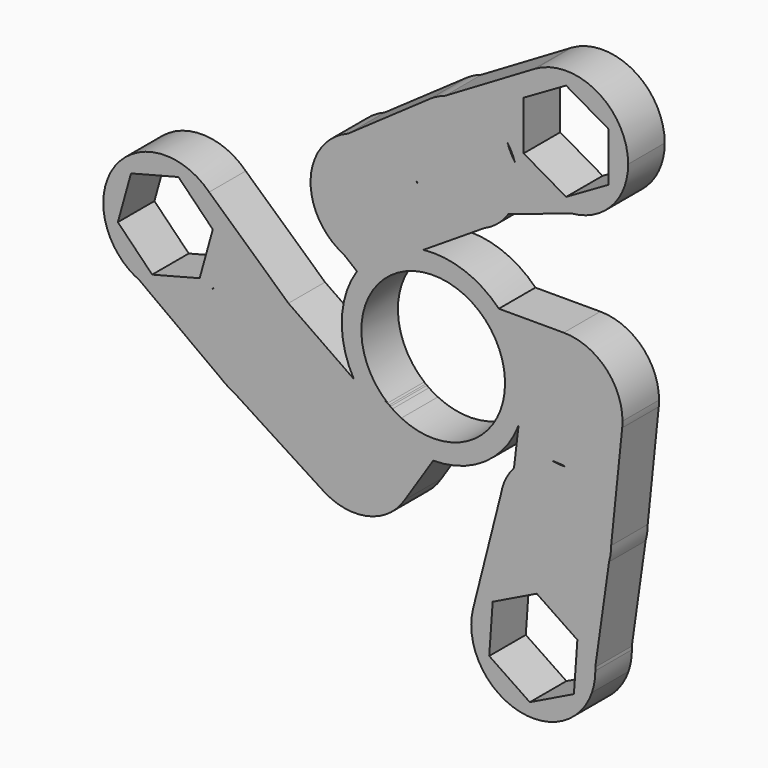
from build123d import *

# Parameters (mm, degrees)
F1_DEPTH = 7


with BuildPart() as f1:
    # F0 (on Front) → F1 (new body)
    with BuildSketch(Plane.XZ):
        with BuildLine():
            ThreePointArc((11, 0), (5.8012105465, -9.3459058521), (-4.8810829447, -9.8577395628))
            ThreePointArc((-4.8810829447, -9.8577395628), (-5.5749329735, -9.4826221237), (-6.2401185881, -9.0587482582))
            ThreePointArc((-6.2401185881, -9.0587482582), (-4.4334688175, -11.105495634), (-3.3236127951, -13.5997646299))
            ThreePointArc((-3.3236127951, -13.5997646299), (-1.6738122926, -13.8995810156), (0, -14))
            ThreePointArc((0, -14), (7.9304668623, -11.5372308352), (13.0708038317, -5.0153850494))
            ThreePointArc((13.0708038317, -5.0153850494), (11.5818296218, -2.4752215759), (10.9923725134, 0.4095687088))
            ThreePointArc((10.9923725134, 0.4095687088), (10.998092963, 0.2048198634), (11, 0))
        make_face()
        with BuildLine():
            ThreePointArc((-5.376474925, 9.5965367389), (5.3837414339, 9.5924620496), (10.9923725134, 0.4095687088))
            ThreePointArc((10.9923725134, 0.4095687088), (11.3655224252, 3.3302251077), (12.6613409157, 5.9741481582))
            ThreePointArc((12.6613409157, 5.9741481582), (11.5120561281, 7.9669670329), (10.0519351006, 9.7446703758))
            ThreePointArc((10.0519351006, 9.7446703758), (4.7602009643, 13.1658834409), (-1.4958903607, 13.9198531612))
            ThreePointArc((-1.4958903607, 13.9198531612), (-3.0777558878, 11.4364731057), (-5.376474925, 9.5965367389))
        make_face()
        with BuildLine():
            ThreePointArc((12.6613409157, 5.9741481582), (11.3655224252, 3.3302251077), (10.9923725134, 0.4095687088))
            ThreePointArc((10.9923725134, 0.4095687088), (11.5818296218, -2.4752215759), (13.0708038317, -5.0153850494))
            ThreePointArc((13.0708038317, -5.0153850494), (13.765741056, -2.5503672634), (14, 0))
            ThreePointArc((14, 0), (13.6612366355, 3.0611457969), (12.6613409157, 5.9741481582))
        make_face()
        with BuildLine():
            Line((-8.3457962775, -11.2404485895), (-6.5574113609, -8.8317810346))
            ThreePointArc((-6.5574113609, -8.8317810346), (-6.6459743499, -8.7653308517), (-6.7338640067, -8.6979926155))
            Line((-6.7338640067, -8.6979926155), (-7.9648038145, -7.9274867454))
            ThreePointArc((-7.9648038145, -7.9274867454), (-9.9953714425, -7.1966013967), (-12.1415555616, -6.9701239979))
            ThreePointArc((-12.1415555616, -6.9701239979), (-10.4638336366, -9.3009776704), (-8.3457962775, -11.2404485895))
        make_face()
        with BuildLine():
            ThreePointArc((-3.0061369382, -15.9691051511), (-3.0858589916, -14.7738472893), (-3.3236127951, -13.5997646299))
            ThreePointArc((-3.3236127951, -13.5997646299), (-5.95276155, -12.6714099424), (-8.3457962775, -11.2404485895))
            Line((-8.3457962775, -11.2404485895), (-17.2744989499, -23.2659785715))
            ThreePointArc((-17.2744989499, -23.2659785715), (-10.2503324106, -24.7961743397), (-4.3464215016, -20.6944368252))
            ThreePointArc((-4.3464215016, -20.6944368252), (-3.3476890712, -18.424971706), (-3.0061369382, -15.9691051511))
        make_face()
        with BuildLine():
            ThreePointArc((0, -14), (-1.6738122926, -13.8995810156), (-3.3236127951, -13.5997646299))
            ThreePointArc((-3.3236127951, -13.5997646299), (-3.0858589916, -14.7738472893), (-3.0061369382, -15.9691051511))
            ThreePointArc((-3.0061369382, -15.9691051511), (-3.3476890712, -18.424971706), (-4.3464215016, -20.6944368252))
            Line((-4.3464215016, -20.6944368252), (0, -14))
        make_face()
        with BuildLine():
            ThreePointArc((-6.969159713, -8.5106294065), (-10.9576931928, 0.9638256544), (-5.376474925, 9.5965367389))
            ThreePointArc((-5.376474925, 9.5965367389), (-8.1460141659, 8.5969734972), (-11.0899483994, 8.5447670828))
            ThreePointArc((-11.0899483994, 8.5447670828), (-11.3936737324, 8.1353671632), (-11.6822932995, 7.71518135))
            ThreePointArc((-11.6822932995, 7.71518135), (-13.9931587545, 0.4376163512), (-12.1415555616, -6.9701239979))
            ThreePointArc((-12.1415555616, -6.9701239979), (-9.9953714425, -7.1966013967), (-7.9648038145, -7.9274867454))
            ThreePointArc((-7.9648038145, -7.9274867454), (-7.4576269032, -8.2030858065), (-6.969159713, -8.5106294065))
        make_face()
        with BuildLine():
            ThreePointArc((-11.0899483994, 8.5447670828), (-8.1460141659, 8.5969734972), (-5.376474925, 9.5965367389))
            ThreePointArc((-5.376474925, 9.5965367389), (-3.0777558878, 11.4364731057), (-1.4958903607, 13.9198531612))
            ThreePointArc((-1.4958903607, 13.9198531612), (-6.842786122, 12.2137741132), (-11.0899483994, 8.5447670828))
        make_face()
        with BuildLine():
            ThreePointArc((19.9861318426, 9.7446703758), (15.8669875166, 8.7467107419), (12.6613409157, 5.9741481582))
            ThreePointArc((12.6613409157, 5.9741481582), (13.6612366355, 3.0611457969), (14, 0))
            ThreePointArc((14, 0), (13.765741056, -2.5503672634), (13.0708038317, -5.0153850494))
            ThreePointArc((13.0708038317, -5.0153850494), (15.4336529722, -7.0190230838), (18.3359214805, -8.1027476521))
            ThreePointArc((18.3359214805, -8.1027476521), (19.3521423539, -8.1145601259), (20.3596897588, -8.2475737537))
            ThreePointArc((20.3596897588, -8.2475737537), (26.1521628551, -5.8112476799), (28.9386250903, -0.1788363383))
            ThreePointArc((28.9386250903, -0.1788363383), (28.9742473078, 0.2823064654), (28.9861318426, 0.7446703758))
            ThreePointArc((28.9861318426, 0.7446703758), (26.3500928733, 7.1086314065), (19.9861318426, 9.7446703758))
        make_face()
        with BuildLine():
            ThreePointArc((10.0519351006, 9.7446703758), (11.5120561281, 7.9669670329), (12.6613409157, 5.9741481582))
            ThreePointArc((12.6613409157, 5.9741481582), (15.8669875166, 8.7467107419), (19.9861318426, 9.7446703758))
            Line((19.9861318426, 9.7446703758), (10.0519351006, 9.7446703758))
        make_face()
        with BuildLine():
            ThreePointArc((18.3359214805, -8.1027476521), (15.4336529722, -7.0190230838), (13.0708038317, -5.0153850494))
            Line((13.0708038317, -5.0153850494), (12.3737412803, -10.9668838503))
            ThreePointArc((12.3737412803, -10.9668838503), (15.0648066133, -8.9310805222), (18.3359214805, -8.1027476521))
        make_face()
        with BuildLine():
            Line((-17.2744989499, -23.2659785715), (-8.3457962775, -11.2404485895))
            ThreePointArc((-8.3457962775, -11.2404485895), (-10.4638336366, -9.3009776704), (-12.1415555616, -6.9701239979))
            ThreePointArc((-12.1415555616, -6.9701239979), (-16.43715736, -8.1354560639), (-19.649063201, -11.216665973))
            ThreePointArc((-19.649063201, -11.216665973), (-19.724391136, -11.344928916), (-19.8019520078, -11.4718540574))
            ThreePointArc((-19.8019520078, -11.4718540574), (-20.8063371613, -17.854967297), (-17.2744989499, -23.2659785715))
        make_face()
        with BuildLine():
            ThreePointArc((-13.6781476127, 9.3384627103), (-12.4140612385, 8.8437433423), (-11.0899483994, 8.5447670828))
            ThreePointArc((-11.0899483994, 8.5447670828), (-6.842786122, 12.2137741132), (-1.4958903607, 13.9198531612))
            ThreePointArc((-1.4958903607, 13.9198531612), (-0.9573685591, 15.6476468151), (-0.7754087457, 17.4482487332))
            ThreePointArc((-0.7754087457, 17.4482487332), (-1.1803946677, 20.1176555958), (-2.3589049675, 22.5468241919))
            ThreePointArc((-2.3589049675, 22.5468241919), (-2.4740751428, 22.7030547607), (-2.5856480794, 22.86187428))
            ThreePointArc((-2.5856480794, 22.86187428), (-7.3129464625, 26.1048230847), (-13.0393377511, 25.8355467157))
            Line((-13.0393377511, 25.8355467157), (-16.5283472399, 23.3978555852))
            ThreePointArc((-16.5283472399, 23.3978555852), (-18.7701232631, 17.7566490427), (-16.9199958862, 11.9751440757))
            Line((-16.9199958862, 11.9751440757), (-13.6781476127, 9.3384627103))
        make_face()
        with BuildLine():
            ThreePointArc((-11.6822932995, 7.71518135), (-11.3936737324, 8.1353671632), (-11.0899483994, 8.5447670828))
            ThreePointArc((-11.0899483994, 8.5447670828), (-12.4140612385, 8.8437433423), (-13.6781476127, 9.3384627103))
            Line((-13.6781476127, 9.3384627103), (-11.6822932995, 7.71518135))
        make_face()
        with BuildLine():
            ThreePointArc((-0.7754087457, 17.4482487332), (-0.9573685591, 15.6476468151), (-1.4958903607, 13.9198531612))
            Line((-1.4958903607, 13.9198531612), (7.8085448357, 19.8707942581))
            ThreePointArc((7.8085448357, 19.8707942581), (2.2614474815, 19.4482473971), (-2.3589049675, 22.5468241919))
            ThreePointArc((-2.3589049675, 22.5468241919), (-1.1803946677, 20.1176555958), (-0.7754087457, 17.4482487332))
        make_face()
        with BuildLine():
            ThreePointArc((20.3596897588, -8.2475737537), (19.3437114064, -8.2323723435), (18.3359214805, -8.1027476521))
            ThreePointArc((18.3359214805, -8.1027476521), (15.0648066133, -8.9310805222), (12.3737412803, -10.9668838503))
            ThreePointArc((12.3737412803, -10.9668838503), (11.0717790846, -12.9370118992), (10.3620949656, -15.1893126205))
            ThreePointArc((10.3620949656, -15.1893126205), (11.7634284882, -21.4407548005), (17.1311340372, -24.9381827286))
            ThreePointArc((17.1311340372, -24.9381827286), (23.2062007851, -23.828302418), (26.9265717457, -18.8990925208))
            ThreePointArc((26.9265717457, -18.8990925208), (27.1653245998, -17.7569533476), (27.2454119419, -16.5928782496))
            ThreePointArc((27.2454119419, -16.5928782496), (25.3017585405, -11.1832276806), (20.3596897588, -8.2475737537))
        make_face()
        with BuildLine():
            ThreePointArc((-19.649063201, -11.216665973), (-16.43715736, -8.1354560639), (-12.1415555616, -6.9701239979))
            Line((-12.1415555616, -6.9701239979), (-22.1615028292, 0.0010258267))
            ThreePointArc((-22.1615028292, 0.0010258267), (-19.4822323923, -3.0402070119), (-18.5159037303, -6.9764229829))
            ThreePointArc((-18.5159037303, -6.9764229829), (-18.804078583, -9.1709451975), (-19.649063201, -11.216665973))
        make_face()
        with BuildLine():
            Line((-30.6383680452, -14.6658801996), (-17.2744989499, -23.2659785715))
            ThreePointArc((-17.2744989499, -23.2659785715), (-20.8063371613, -17.854967297), (-19.8019520078, -11.4718540574))
            ThreePointArc((-19.8019520078, -11.4718540574), (-24.6127503438, -15.1296342399), (-30.6383680452, -14.6658801996))
        make_face()
        with BuildLine():
            ThreePointArc((-16.9199958862, 11.9751440757), (-15.4542180518, 10.4660481585), (-13.6781476127, 9.3384627103))
            Line((-13.6781476127, 9.3384627103), (-16.9199958862, 11.9751440757))
        make_face()
        with BuildLine():
            ThreePointArc((-2.3589049675, 22.5468241919), (2.2614474815, 19.4482473971), (7.8085448357, 19.8707942581))
            ThreePointArc((7.8085448357, 19.8707942581), (9.8754074452, 21.1458572643), (11.4973523143, 22.953342135))
            ThreePointArc((11.4973523143, 22.953342135), (12.5602122095, 25.2051330004), (12.9249318129, 27.6683043037))
            ThreePointArc((12.9249318129, 27.6683043037), (12.8184271648, 29.0096602515), (12.501582218, 30.3174019302))
            ThreePointArc((12.501582218, 30.3174019302), (11.8618032949, 31.4043947248), (11.3716628248, 32.5665619785))
            ThreePointArc((11.3716628248, 32.5665619785), (7.1006656903, 35.7361694623), (1.7820464101, 35.7469896391))
            ThreePointArc((1.7820464101, 35.7469896391), (0.6285157486, 35.2733832031), (-0.4433099416, 34.6361032546))
            ThreePointArc((-0.4433099416, 34.6361032546), (-3.9377661917, 29.1899094049), (-2.5856480794, 22.86187428))
            ThreePointArc((-2.5856480794, 22.86187428), (-2.4705778514, 22.7055717787), (-2.3589049675, 22.5468241919))
        make_face()
        with BuildLine():
            ThreePointArc((28.9386250903, -0.1788363383), (26.1521628551, -5.8112476799), (20.3596897588, -8.2475737537))
            ThreePointArc((20.3596897588, -8.2475737537), (25.3017585405, -11.1832276806), (27.2454119419, -16.5928782496))
            Line((27.2454119419, -16.5928782496), (28.9386250903, -0.1788363383))
        make_face()
        with BuildLine():
            ThreePointArc((17.1311340372, -24.9381827286), (11.7634284882, -21.4407548005), (10.3620949656, -15.1893126205))
            Line((10.3620949656, -15.1893126205), (6.1182063209, -31.9309354787))
            ThreePointArc((6.1182063209, -31.9309354787), (10.2346471912, -26.2454036686), (17.1311340372, -24.9381827286))
        make_face()
        with BuildLine():
            ThreePointArc((-19.8019520078, -11.4718540574), (-19.726562038, -11.3436282808), (-19.649063201, -11.216665973))
            ThreePointArc((-19.649063201, -11.216665973), (-18.804078583, -9.1709451975), (-18.5159037303, -6.9764229829))
            ThreePointArc((-18.5159037303, -6.9764229829), (-19.4822323923, -3.0402070119), (-22.1615028292, 0.0010258267))
            ThreePointArc((-22.1615028292, 0.0010258267), (-28.0259123715, 1.4633567858), (-33.3796599915, -1.3414778857))
            ThreePointArc((-33.3796599915, -1.3414778857), (-33.6198058263, -1.6522841582), (-33.8725938013, -1.9528981975))
            ThreePointArc((-33.8725938013, -1.9528981975), (-35.4572347505, -7.9733836681), (-32.5136615696, -13.4590658653))
            Line((-32.5136615696, -13.4590658653), (-30.6383680452, -14.6658801996))
            ThreePointArc((-30.6383680452, -14.6658801996), (-24.6127503438, -15.1296342399), (-19.8019520078, -11.4718540574))
        make_face()
        with BuildLine():
            ThreePointArc((-33.3796599915, -1.3414778857), (-28.0259123715, 1.4633567858), (-22.1615028292, 0.0010258267))
            Line((-22.1615028292, 0.0010258267), (-34.305198064, 11.0349063801))
            ThreePointArc((-34.305198064, 11.0349063801), (-32.2406685601, 7.9504227537), (-31.5155990172, 4.3102860156))
            ThreePointArc((-31.5155990172, 4.3102860156), (-31.9936418918, 1.3346701754), (-33.3796599915, -1.3414778857))
        make_face()
        with BuildLine():
            ThreePointArc((-32.5136615696, -13.4590658653), (-31.6157638635, -14.1242399053), (-30.6383680452, -14.6658801996))
            Line((-30.6383680452, -14.6658801996), (-32.5136615696, -13.4590658653))
        make_face()
        with BuildLine():
            ThreePointArc((12.9249318129, 27.6683043037), (12.5602122095, 25.2051330004), (11.4973523143, 22.953342135))
            Line((11.4973523143, 22.953342135), (21.1537393142, 26.2030323395))
            ThreePointArc((21.1537393142, 26.2030323395), (16.271028485, 27.0896684433), (12.501582218, 30.3174019302))
            ThreePointArc((12.501582218, 30.3174019302), (12.8184271648, 29.0096602515), (12.9249318129, 27.6683043037))
        make_face()
        with BuildLine():
            ThreePointArc((26.9265717457, -18.8990925208), (23.2062007851, -23.828302418), (17.1311340372, -24.9381827286))
            ThreePointArc((17.1311340372, -24.9381827286), (22.5030713208, -28.0400843595), (24.8153529335, -33.7961991646))
            Line((24.8153529335, -33.7961991646), (26.9265717457, -18.8990925208))
        make_face()
        with BuildLine():
            ThreePointArc((24.8153529335, -33.7961991646), (22.5030713208, -28.0400843595), (17.1311340372, -24.9381827286))
            ThreePointArc((17.1311340372, -24.9381827286), (10.2346471912, -26.2454036686), (6.1182063209, -31.9309354787))
            ThreePointArc((6.1182063209, -31.9309354787), (12.6139154346, -43.3696543498), (24.311375158, -37.3523491122))
            Line((24.311375158, -37.3523491122), (24.8153529335, -33.7961991646))
        make_face()
        Polygon((22.0762519958, -30.9819757122), (21.5450282843, -38.4687062871), (14.7957175594, -41.7520183454), (8.577630546, -37.5485998287), (9.1088542574, -30.0618692537), (15.8581649824, -26.7785571955), align=None, mode=Mode.SUBTRACT)
        with BuildLine():
            ThreePointArc((-33.8725938013, -1.9528981975), (-33.6331923749, -1.6414917748), (-33.3796599915, -1.3414778857))
            ThreePointArc((-33.3796599915, -1.3414778857), (-31.9936418918, 1.3346701754), (-31.5155990172, 4.3102860156))
            ThreePointArc((-31.5155990172, 4.3102860156), (-32.2406685601, 7.9504227537), (-34.305198064, 11.0349063801))
            ThreePointArc((-34.305198064, 11.0349063801), (-47.5595492901, 11.1969916739), (-48.0737467156, -2.0483735183))
            Line((-48.0737467156, -2.0483735183), (-44.9586657717, -4.3327588512))
            ThreePointArc((-44.9586657717, -4.3327588512), (-39.021649238, -4.9781026648), (-33.8725938013, -1.9528981975))
        make_face()
        Polygon((-43.0257687757, -2.9210728384), (-48.2832243679, 2.4354646654), (-46.2730546094, 9.6668235194), (-39.0054292586, 11.5416448695), (-33.7479736665, 6.1851073657), (-35.758143425, -1.0462514883), align=None, mode=Mode.SUBTRACT)
        with BuildLine():
            Line((-44.9586657717, -4.3327588512), (-32.5136615696, -13.4590658653))
            ThreePointArc((-32.5136615696, -13.4590658653), (-35.4572347505, -7.9733836681), (-33.8725938013, -1.9528981975))
            ThreePointArc((-33.8725938013, -1.9528981975), (-39.021649238, -4.9781026648), (-44.9586657717, -4.3327588512))
        make_face()
        with BuildLine():
            ThreePointArc((-13.0393377511, 25.8355467157), (-14.9300176676, 24.8259182068), (-16.5283472399, 23.3978555852))
            Line((-16.5283472399, 23.3978555852), (-13.0393377511, 25.8355467157))
        make_face()
        with BuildLine():
            ThreePointArc((-13.0393377511, 25.8355467157), (-7.3129464625, 26.1048230847), (-2.5856480794, 22.86187428))
            ThreePointArc((-2.5856480794, 22.86187428), (-3.9377661917, 29.1899094049), (-0.4433099416, 34.6361032546))
            Line((-0.4433099416, 34.6361032546), (-13.0393377511, 25.8355467157))
        make_face()
        with BuildLine():
            Line((25.4342829671, 27.6435753478), (21.1537393142, 26.2030323395))
            ThreePointArc((21.1537393142, 26.2030323395), (23.3808627584, 26.6652260642), (25.4342829671, 27.6435753478))
        make_face()
        with BuildLine():
            ThreePointArc((12.501582218, 30.3174019302), (16.271028485, 27.0896684433), (21.1537393142, 26.2030323395))
            Line((21.1537393142, 26.2030323395), (25.4342829671, 27.6435753478))
            ThreePointArc((25.4342829671, 27.6435753478), (28.673742402, 31.0888212365), (29.8507853844, 35.6690380962))
            ThreePointArc((29.8507853844, 35.6690380962), (25.1394128473, 43.8738566208), (15.6783544325, 43.9405790046))
            Line((15.6783544325, 43.9405790046), (15.3746215347, 43.7614909593))
            ThreePointArc((15.3746215347, 43.7614909593), (11.405445066, 38.8676138087), (11.3716628248, 32.5665619785))
            ThreePointArc((11.3716628248, 32.5665619785), (12.0203368403, 31.4840378465), (12.501582218, 30.3174019302))
        make_face()
        Polygon((20.3507853844, 28.1634845967), (13.8507853844, 31.9162613465), (13.8507853844, 39.4218148459), (20.3507853844, 43.1745915957), (26.8507853844, 39.4218148459), (26.8507853844, 31.9162613465), align=None, mode=Mode.SUBTRACT)
        with BuildLine():
            ThreePointArc((24.8269412709, -34.2652877704), (24.8240437447, -34.030671909), (24.8153529335, -33.7961991646))
            Line((24.8153529335, -33.7961991646), (24.311375158, -37.3523491122))
            ThreePointArc((24.311375158, -37.3523491122), (24.6971633047, -35.8301964055), (24.8269412709, -34.2652877704))
        make_face()
        with BuildLine():
            Line((-44.9586657717, -4.3327588512), (-48.0737467156, -2.0483735183))
            ThreePointArc((-48.0737467156, -2.0483735183), (-46.6335420524, -3.3505700758), (-44.9586657717, -4.3327588512))
        make_face()
        with BuildLine():
            Line((15.3746215347, 43.7614909593), (1.7820464101, 35.7469896391))
            ThreePointArc((1.7820464101, 35.7469896391), (7.1006656903, 35.7361694623), (11.3716628248, 32.5665619785))
            ThreePointArc((11.3716628248, 32.5665619785), (11.405445066, 38.8676138087), (15.3746215347, 43.7614909593))
        make_face()
        with BuildLine():
            ThreePointArc((15.6783544325, 43.9405790046), (15.5256570397, 43.8524442609), (15.3746215347, 43.7614909593))
            Line((15.3746215347, 43.7614909593), (15.6783544325, 43.9405790046))
        make_face()
        with BuildLine():
            ThreePointArc((-3.3236127951, -13.5997646299), (-4.4334688175, -11.105495634), (-6.2401185881, -9.0587482582))
            ThreePointArc((-6.2401185881, -9.0587482582), (-6.3997712248, -8.9466713514), (-6.5574113609, -8.8317810346))
            Line((-6.5574113609, -8.8317810346), (-8.3457962775, -11.2404485895))
            ThreePointArc((-8.3457962775, -11.2404485895), (-5.95276155, -12.6714099424), (-3.3236127951, -13.5997646299))
        make_face()
    extrude(amount=F1_DEPTH)


solid = f1.part
